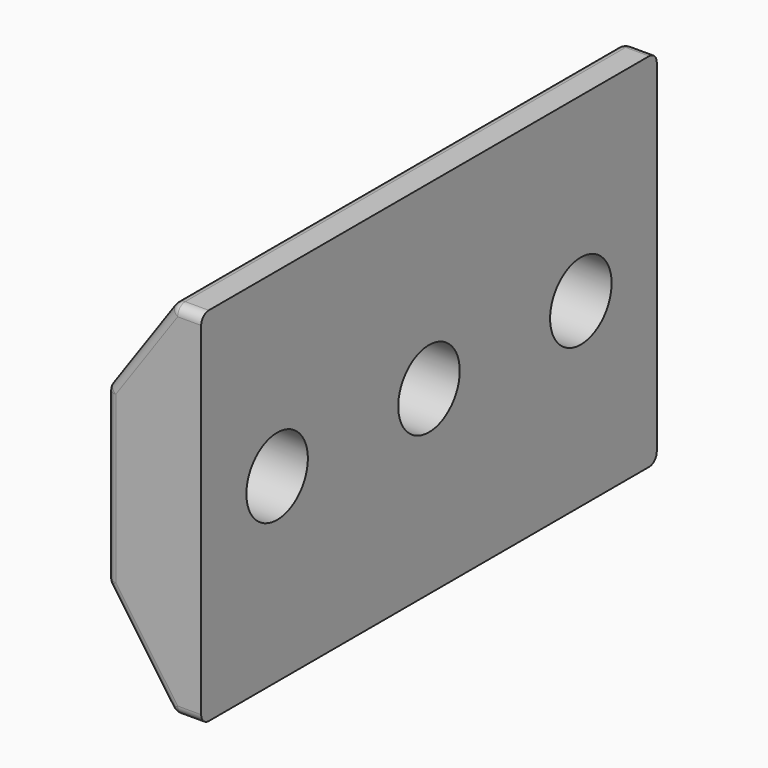
from build123d import *

# Parameters (mm, degrees)
PAD003_DEPTH    = 60
SKETCH022_R     = 4.05
POCKET018_DEPTH = 332.001
SKETCH023_R     = 8.65
POCKET019_DEPTH = 4
SKETCH024_R     = 4.05
POCKET020_DEPTH = 332.001
FILLET006_R     = 1
FILLET007_R     = 1


with BuildPart() as part:
    # Sketch021 → Pad003 (new body)
    with BuildSketch(Plane.XZ.offset(25)):
        Polygon((332, 31), (332, 50.05), (329, 50.05), (322, 40.05), (322, 21.95), (329, 11.95), (332, 11.95), align=None)
    extrude(amount=PAD003_DEPTH)

    # Sketch022 → Pocket018 (cut, through all)
    with BuildSketch(Plane.YZ):
        with Locations((-75, 31)):
            Circle(SKETCH022_R)
        with Locations((-35, 31)):
            Circle(SKETCH022_R)
    extrude(amount=POCKET018_DEPTH, mode=Mode.SUBTRACT)

    # Sketch023 → Pocket019 (cut)
    with BuildSketch(Plane.YZ.offset(322)):
        with Locations((-75, 31)):
            Circle(SKETCH023_R)
        with Locations((-35, 31)):
            Circle(SKETCH023_R)
    extrude(amount=POCKET019_DEPTH, mode=Mode.SUBTRACT)

    # Sketch024 → Pocket020 (cut, through all)
    with BuildSketch(Plane.YZ):
        with Locations((-55, 31)):
            Circle(SKETCH024_R)
    extrude(amount=POCKET020_DEPTH, mode=Mode.SUBTRACT)

    # Fillet006
    fillet006_edges = [part.edges().sort_by_distance(p)[0] for p in [
        (329, -55, 11.95),
        (322, -55, 21.95),
        (322, -55, 40.05),
        (329, -55, 50.05),
    ]]
    fillet(fillet006_edges, radius=FILLET006_R)

    # Fillet007
    fillet007_edges = [part.edges().sort_by_distance(p)[0] for p in [
        (325.441096, -25, 44.965851),
        (322, -25, 31),
        (325.441096, -25, 17.034149),
        (325.441096, -85, 17.034149),
        (322, -85, 31),
        (325.441096, -85, 44.965851),
    ]]
    fillet(fillet007_edges, radius=FILLET007_R)


solid = part.part
